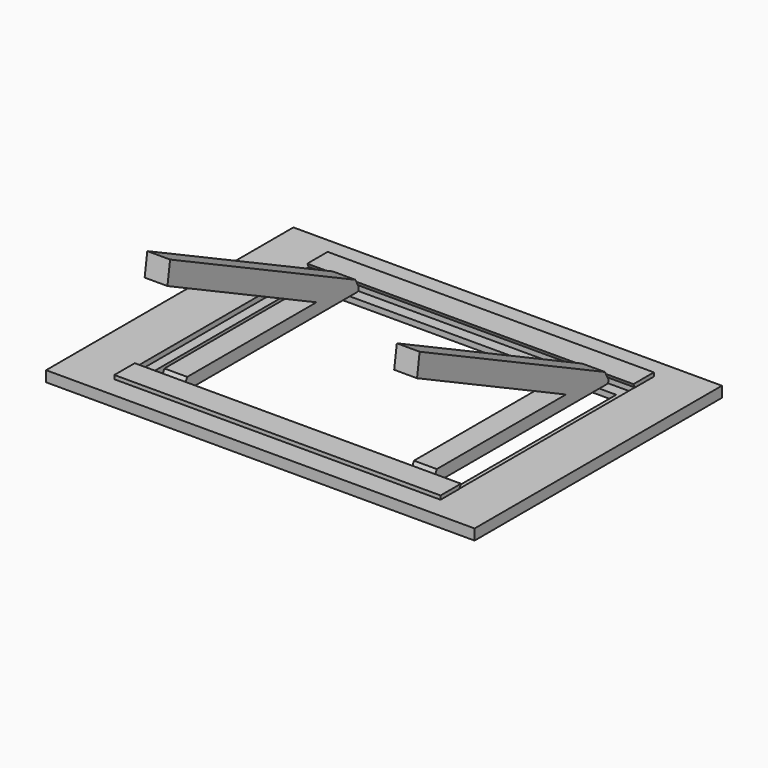
from build123d import *

# Parameters (mm, degrees)
F0_W     = 120.203294
F0_H     = 86.726114
F0_W_2   = 91.444374
F0_H_2   = 61.562058
F1_DEPTH = 3
F0_W_3   = 86.052082
F0_H_3   = 55.27104
F2_DEPTH = 1.6
F4_DEPTH = 91.5
F6_DEPTH = 6.4
F7_R     = 0.4


with BuildPart() as f1:
    # F0 (on Top) → F1 (new body)
    with BuildSketch(Plane.XY):
        Rectangle(F0_W, F0_H)
        Rectangle(F0_W_2, F0_H_2, mode=Mode.SUBTRACT)
    extrude(amount=F1_DEPTH)

    # F0 (on Top) → F2 (join)
    with BuildSketch(Plane.XY):
        Rectangle(F0_W_2, F0_H_2)
        Rectangle(F0_W_3, F0_H_3, mode=Mode.SUBTRACT)
    extrude(amount=F2_DEPTH)

    # F3 (on face) → F4 (join)
    with BuildSketch(Plane.YZ.offset(-45.722187)):
        Polygon((30.242961, 4.065319), (30.781029, 3), (37.396118, 3), (37.396118, 4.065319), align=None)
        Polygon((-30.781029, 3), (-30.242961, 4.065319), (-37.396118, 4.065319), (-37.396118, 3), align=None)
    extrude(amount=F4_DEPTH)


with BuildPart() as f6:
    # F5 (on Right) → F6 (new body)
    with BuildSketch(Plane.YZ):
        Polygon((-30.638326, 1.691695), (30.638326, 1.691695), (30.638326, 2.70189), (29.493395, 4.968736), (-35.500869, 36.388316), (-36.425993, 30.220814), (15.810231, 4.968736), (-29.493395, 4.968736), (-30.638326, 2.70189), align=None)
    extrude(amount=F6_DEPTH)

    # F7
    f7_edges = [f6.edges().sort_by_distance(p)[0] for p in [
        (3.2, 30.638326, 1.691695),
        (3.2, -30.638326, 1.691695),
    ]]
    fillet(f7_edges, radius=F7_R)


with BuildPart() as f8_1:
    # F8: copy of F6
    add(f6.part.moved(Location((32, 0, 0))))


with BuildPart() as f6_1:
    # F9: moved
    add(f6.part.moved(Location((-38, 0, 0))))


solid = Compound([f1.part, f8_1.part, f6_1.part])
